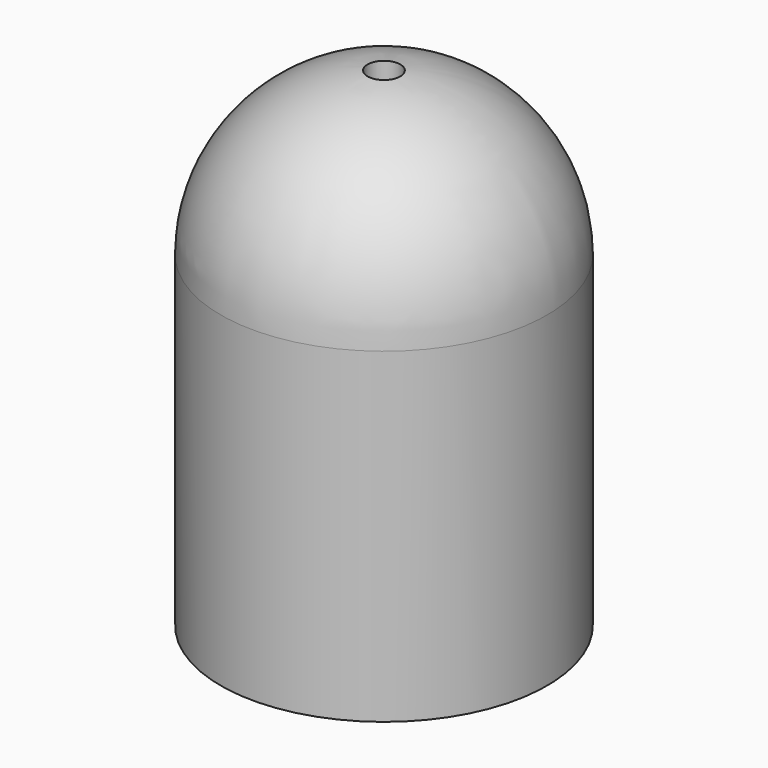
from build123d import *

# Parameters (mm, degrees)
F2_R     = 45
F3_DEPTH = 100
F4_R     = 5
F5_DEPTH = 150.001


with BuildPart() as f1:
    # F0 (on Front) → F1 (revolve)
    with BuildSketch(Plane.XZ):
        with BuildLine():
            Line((-50, 0), (0, 0))
            Line((0, 0), (0, 150))
            ThreePointArc((0, 150), (-35.355339, 135.355339), (-50, 100))
            Line((-50, 100), (-50, 0))
        make_face()
    revolve(axis=Axis((0, 0, 75), (0, 0, 1)))

    # F2 (on Top) → F3 (cut)
    with BuildSketch(Plane.XY):
        Circle(F2_R)
    extrude(amount=F3_DEPTH, mode=Mode.SUBTRACT)

    # F4 (on Top) → F5 (cut, through all)
    with BuildSketch(Plane.XY):
        Circle(F4_R)
    extrude(amount=F5_DEPTH, mode=Mode.SUBTRACT)


solid = f1.part
